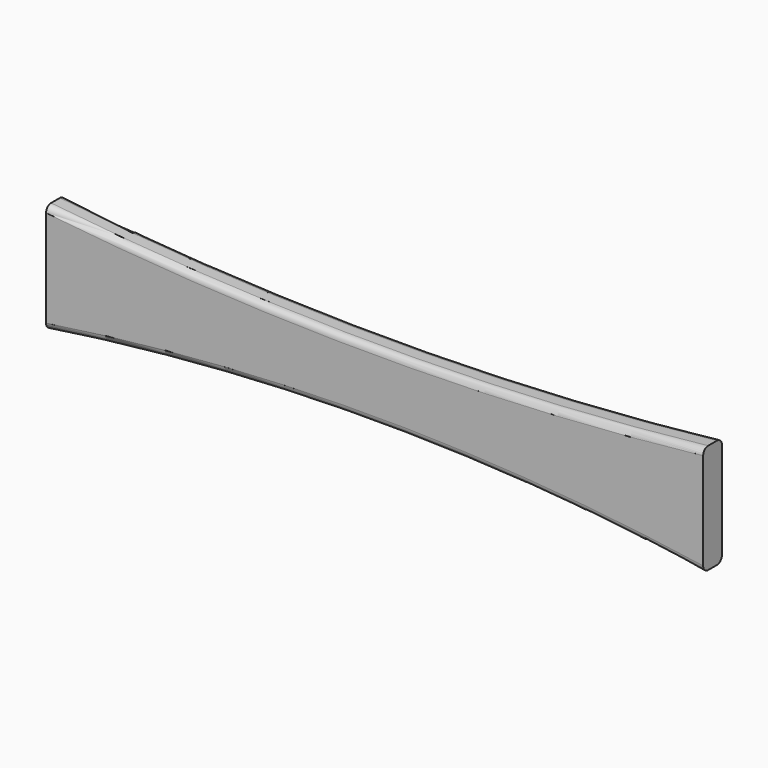
from build123d import *

# Parameters (mm, degrees)
F1_DEPTH = 19.05
F2_R     = 5.08


with BuildPart() as f1:
    # F0 (on Front) → F1 (new body)
    with BuildSketch(Plane.XZ):
        with BuildLine():
            ThreePointArc((266.7, 44.45), (0, 29.666027), (-266.7, 44.45))
            Line((-266.7, 44.45), (-266.7, -44.45))
            ThreePointArc((-266.7, -44.45), (0, -24.333702), (266.7, -44.45))
            Line((266.7, -44.45), (266.7, 44.45))
        make_face()
    extrude(amount=F1_DEPTH)

    # F2
    f2_edges = [f1.edges().sort_by_distance(p)[0] for p in [
        (0, -19.05, 29.666027),
        (0, -19.05, -24.333702),
        (0, 0, 29.666027),
        (0, 0, -24.333702),
    ]]
    fillet(f2_edges, radius=F2_R)


solid = f1.part
